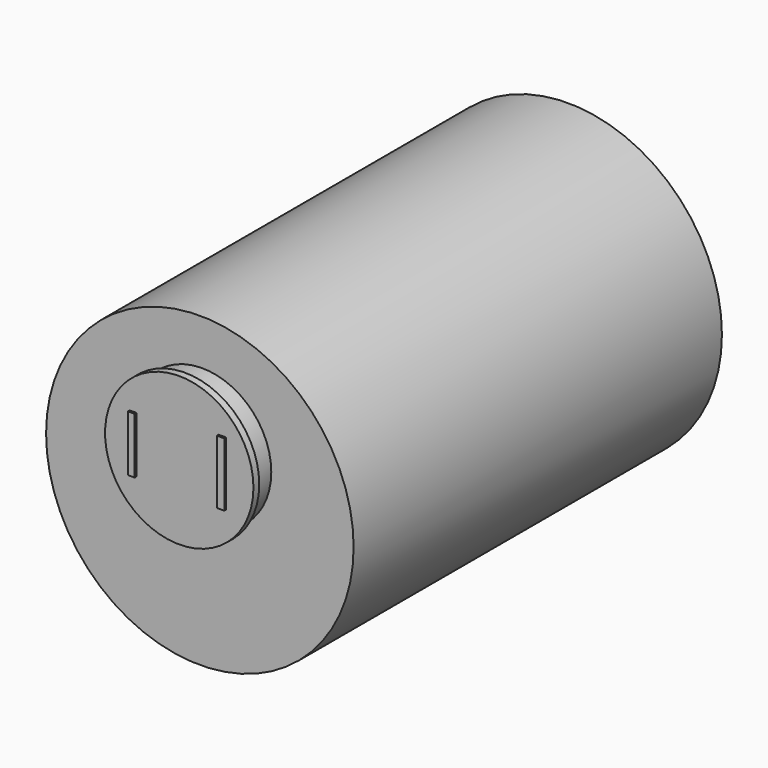
from build123d import *

# Parameters (mm, degrees)
SKETCH013_R   = 701.420325
PAD013_DEPTH  = 2100
SKETCH014_R   = 315.090162
PAD014_DEPTH  = 100
SKETCH016_R   = 338.402277
PAD016_DEPTH  = 33
SKETCH027_W   = 30.567139
SKETCH027_H   = 255.999512
SKETCH027_W_2 = 34.387939
SKETCH027_H_2 = 290.387695
PAD021_DEPTH  = 10


with BuildPart() as part:
    # Sketch013 → Pad013 (new body)
    with BuildSketch(Plane.XZ):
        with Locations((-2577.543945, 5472.492188)):
            Circle(SKETCH013_R)
    extrude(amount=PAD013_DEPTH)

    # Sketch014 (on Face3 of Pad013) → Pad014 (join)
    with BuildSketch(Plane.XZ.offset(2100)):
        with Locations((-2566.849609, 5651.506348)):
            Circle(SKETCH014_R)
    extrude(amount=PAD014_DEPTH)

    # Sketch016 (on Face5 of Pad014) → Pad016 (join)
    with BuildSketch(Plane.XZ.offset(2200)):
        with Locations((-2565.115723, 5651.206055)):
            Circle(SKETCH016_R)
    extrude(amount=PAD016_DEPTH)

    # Sketch027 (on Face3 of Pad016) → Pad021 (join)
    with BuildSketch(Plane.XZ.offset(2233)):
        with Locations((-2775.766723, 5650.032471)):
            Rectangle(SKETCH027_W, SKETCH027_H)
        with Locations((-2368.842407, 5667.226562)):
            Rectangle(SKETCH027_W_2, SKETCH027_H_2)
    extrude(amount=PAD021_DEPTH)


with BuildPart() as part_1:
    # Body013 placement: moved
    add(part.part.moved(Location((0, 2035, 0))))


solid = part_1.part
